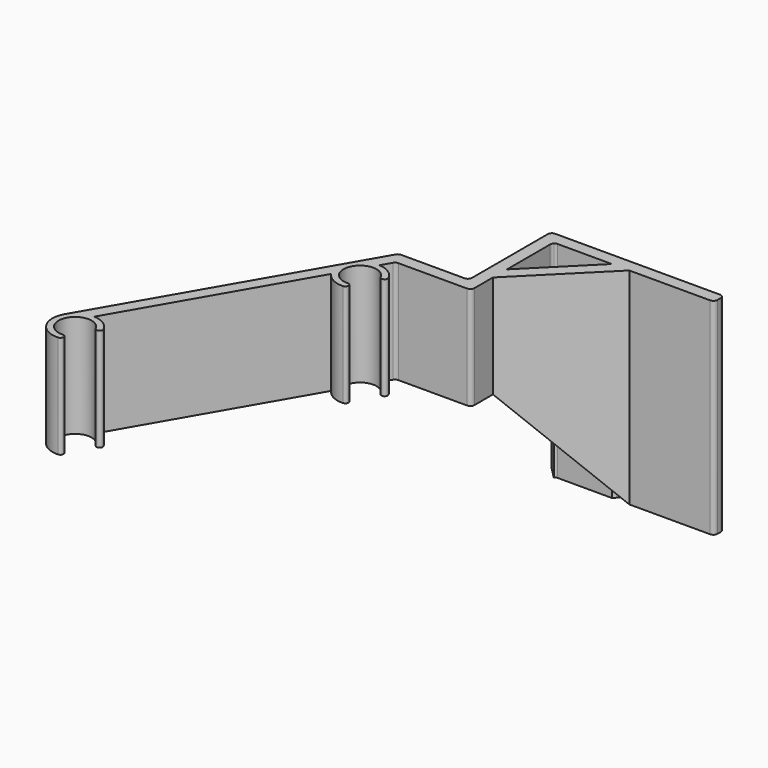
from build123d import *

# Parameters (mm, degrees)
F1_DEPTH = 25
F2_DEPTH = 25
F4_DEPTH = 3


with BuildPart() as f1:
    # F0 (on Top) → F1 (new body)
    with BuildSketch(Plane.XY):
        with BuildLine():
            ThreePointArc((0.2530346427, -5.4941763231), (0.9677357809, -4.7104657369), (0.1840251947, -3.9957645986))
            ThreePointArc((0.1840251947, -3.9957645986), (-3.4641016151, 2), (3.5524462473, 1.8385118058))
            ThreePointArc((3.5524462473, 1.8385118058), (4.5632508823, 1.517149098), (4.88461359, 2.527953733))
            ThreePointArc((4.88461359, 2.527953733), (2.9794438001, 4.6230849702), (0.2844262333, 5.4926406871))
            ThreePointArc((0.2844262333, 5.4926406871), (-2.6258785407, 4.8326764727), (-4.7631397208, 2.75))
            ThreePointArc((-4.7631397208, 2.75), (-4.6986032782, -2.8588681736), (0.2530346427, -5.4941763231))
        make_face()
        with BuildLine():
            Line((24.2368602792, 52.9794734195), (-4.7631397208, 2.75))
            ThreePointArc((-4.7631397208, 2.75), (-2.6258785407, 4.8326764727), (0.2844262333, 5.4926406871))
            Line((0.2844262333, 5.4926406871), (24.3854467478, 47.2368327324))
            ThreePointArc((24.3854467478, 47.2368327324), (23.501840136, 50.0872127066), (24.2368602792, 52.9794734195))
        make_face()
        with BuildLine():
            ThreePointArc((29.2844262333, 55.7221141066), (26.3741214593, 55.0621498922), (24.2368602792, 52.9794734195))
            ThreePointArc((24.2368602792, 52.9794734195), (23.501840136, 50.0872127066), (24.3854467478, 47.2368327324))
            ThreePointArc((24.3854467478, 47.2368327324), (26.486012872, 45.3376569144), (29.2530346427, 44.7352970964))
            ThreePointArc((29.2530346427, 44.7352970964), (29.9677357809, 45.5190076826), (29.1840251947, 46.2337088209))
            ThreePointArc((29.1840251947, 46.2337088209), (25.5358983849, 52.2294734195), (32.5524462473, 52.0679852253))
            ThreePointArc((32.5524462473, 52.0679852253), (33.5632508823, 51.7466225175), (33.88461359, 52.7574271525))
            ThreePointArc((33.88461359, 52.7574271525), (31.9794438001, 54.8525583897), (29.2844262333, 55.7221141066))
        make_face()
        with BuildLine():
            Line((28.9481851446, 61.1397274573), (24.2368602792, 52.9794734195))
            ThreePointArc((24.2368602792, 52.9794734195), (26.3741214593, 55.0621498922), (29.2844262333, 55.7221141066))
            Line((29.2844262333, 55.7221141066), (30.6802359522, 58.1397274573))
            ThreePointArc((30.6802359522, 58.1397274573), (31.0462613559, 58.5057528611), (31.5462613559, 58.6397274573))
            Line((31.5462613559, 58.6397274573), (48.2368602792, 58.6397274573))
            ThreePointArc((48.2368602792, 58.6397274573), (48.9439670604, 58.9326206762), (49.2368602792, 59.6397274573))
            Line((49.2368602792, 59.6397274573), (49.2368602792, 61.6397274573))
            Line((49.2368602792, 61.6397274573), (49.2368602792, 65.2549511465))
            Line((49.2368602792, 65.2549511465), (49.2368602792, 69.4975918336))
            Line((49.2368602792, 69.4975918336), (49.2368602792, 82.6397274573))
            ThreePointArc((49.2368602792, 82.6397274573), (49.3129807467, 83.0224108897), (49.529753498, 83.3468342385))
            Line((49.529753498, 83.3468342385), (46.529753498, 86.3468342385))
            ThreePointArc((46.529753498, 86.3468342385), (46.3129807467, 86.0224108897), (46.2368602792, 85.6397274573))
            Line((46.2368602792, 85.6397274573), (46.2368602792, 62.6397274573))
            ThreePointArc((46.2368602792, 62.6397274573), (45.9439670604, 61.9326206762), (45.2368602792, 61.6397274573))
            Line((45.2368602792, 61.6397274573), (29.8142105484, 61.6397274573))
            ThreePointArc((29.8142105484, 61.6397274573), (29.3142105484, 61.5057528611), (28.9481851446, 61.1397274573))
        make_face()
        Polygon((49.2368602792, 69.4975918336), (49.2368602792, 65.2549511465), (67.62163659, 83.6397274573), (63.3789959029, 83.6397274573), align=None)
        with BuildLine():
            ThreePointArc((47.2368602792, 86.6397274573), (46.8541768468, 86.5636069899), (46.529753498, 86.3468342385))
            Line((46.529753498, 86.3468342385), (49.529753498, 83.3468342385))
            ThreePointArc((49.529753498, 83.3468342385), (49.8541768468, 83.5636069899), (50.2368602792, 83.6397274573))
            Line((50.2368602792, 83.6397274573), (63.3789959029, 83.6397274573))
            Line((63.3789959029, 83.6397274573), (67.62163659, 83.6397274573))
            Line((67.62163659, 83.6397274573), (87.2368602792, 83.6397274573))
            ThreePointArc((87.2368602792, 83.6397274573), (87.9439670604, 83.9326206762), (88.2368602792, 84.6397274573))
            Line((88.2368602792, 84.6397274573), (88.2368602792, 85.6397274573))
            ThreePointArc((88.2368602792, 85.6397274573), (87.9439670604, 86.3468342385), (87.2368602792, 86.6397274573))
            Line((87.2368602792, 86.6397274573), (47.2368602792, 86.6397274573))
        make_face()
    extrude(amount=F1_DEPTH)

    # F0 (on Top) → F2 (join)
    with BuildSketch(Plane.XY):
        with BuildLine():
            ThreePointArc((47.2368602792, 86.6397274573), (46.8541768468, 86.5636069899), (46.529753498, 86.3468342385))
            Line((46.529753498, 86.3468342385), (49.529753498, 83.3468342385))
            ThreePointArc((49.529753498, 83.3468342385), (49.8541768468, 83.5636069899), (50.2368602792, 83.6397274573))
            Line((50.2368602792, 83.6397274573), (63.3789959029, 83.6397274573))
            Line((63.3789959029, 83.6397274573), (67.62163659, 83.6397274573))
            Line((67.62163659, 83.6397274573), (87.2368602792, 83.6397274573))
            ThreePointArc((87.2368602792, 83.6397274573), (87.9439670604, 83.9326206762), (88.2368602792, 84.6397274573))
            Line((88.2368602792, 84.6397274573), (88.2368602792, 85.6397274573))
            ThreePointArc((88.2368602792, 85.6397274573), (87.9439670604, 86.3468342385), (87.2368602792, 86.6397274573))
            Line((87.2368602792, 86.6397274573), (47.2368602792, 86.6397274573))
        make_face()
        Polygon((49.2368602792, 69.4975918336), (49.2368602792, 65.2549511465), (67.62163659, 83.6397274573), (63.3789959029, 83.6397274573), align=None)
    extrude(amount=-F2_DEPTH)

    # F3 (on face) → F4 (cut, through all)
    with BuildSketch(Plane(origin=(-8.0090454337, 8.0090454337, 0), x_dir=(0.7071067812, 0.7071067812, 0), z_dir=(0.7071067812, -0.7071067812, 0))):
        Polygon((106.9579362494, -25), (80.9579362494, 0), (80.9579362494, -25), align=None)
    extrude(amount=-F4_DEPTH, mode=Mode.SUBTRACT)


solid = f1.part
